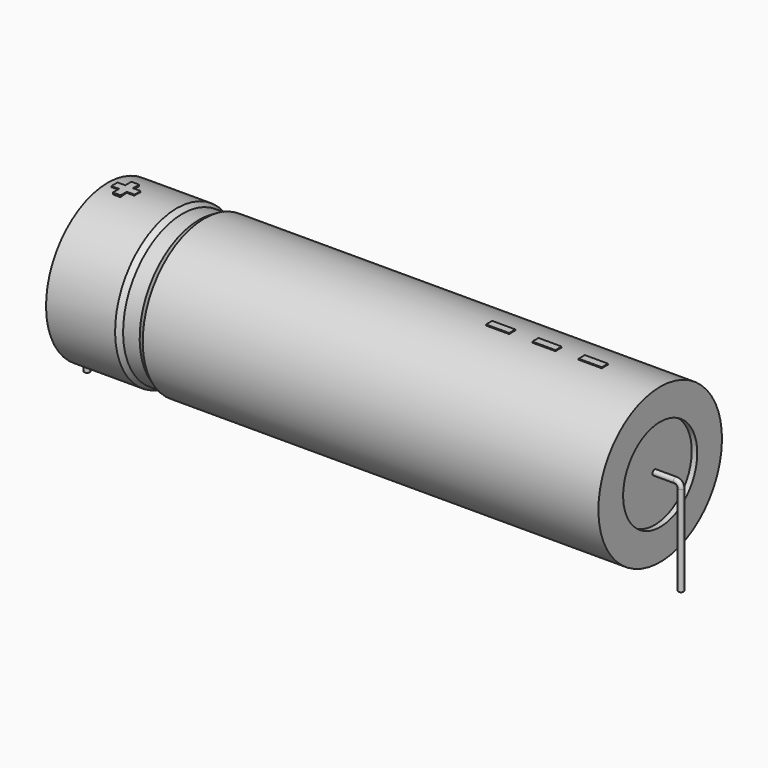
from build123d import *

# Parameters (mm, degrees)
SKETCH_R    = 0.45
SKETCH004_W = 3.9
SKETCH004_H = 1.3
PAD_DEPTH   = 13.13


with BuildPart() as sweep_body:
    # Sweep: sweep along a path in Sketch001
    with BuildLine(Plane.XZ) as sweep_path:
        Line((0, -3), (0, 12.2))
        ThreePointArc((0, 12.2), (0.263601, 12.836393), (0.899993, 13.1))
        Line((0.899993, 13.1), (99.1, 13.1))
        ThreePointArc((99.1, 13.1), (99.736396, 12.836396), (100, 12.2))
        Line((100, 12.2), (100, -3))
    # Sketch → Sweep (sweep)
    with BuildSketch(Plane.XY.offset(-2)):
        Circle(SKETCH_R)
    sweep(path=sweep_path.line)


with BuildPart() as revolution:
    # Sketch002 → Revolution (revolve)
    with BuildSketch(Plane.XZ):
        Polygon((3.5, 26.1), (3.5, 20.9), (96.5, 20.9), (96.5, 26.1), (19.775, 26.1), (18.845, 25.58), (16.055, 25.58), (15.125, 26.1), align=None)
    revolve(axis=Axis((6.97588, 0, 13.1), (1, 0, 0)))


with BuildPart() as revolution001:
    # Sketch003 → Revolution001 (revolve)
    with BuildSketch(Plane.XZ):
        Polygon((4.43, 25.58), (9.08, 25.58), (9.08, 14.4), (90.92, 14.4), (90.92, 25.58), (95.57, 25.58), (95.57, 13.1), (4.43, 13.1), align=None)
    revolve(axis=Axis((6.97588, 0, 13.1), (1, 0, 0)))


with BuildPart() as pad:
    # Sketch004 → Pad (new body)
    with BuildSketch(Plane.XY.offset(13.1)):
        with Locations((85.25, 0)):
            Rectangle(SKETCH004_W, SKETCH004_H)
        with Locations((77.45, 0)):
            Rectangle(SKETCH004_W, SKETCH004_H)
        with Locations((69.65, 0)):
            Rectangle(SKETCH004_W, SKETCH004_H)
        Polygon((5.916, 0.65), (4.616, 0.65), (4.616, -0.65), (5.916, -0.65), (5.916, -1.95), (7.216, -1.95), (7.216, -0.65), (8.516, -0.65), (8.516, 0.65), (7.216, 0.65), (7.216, 1.95), (5.916, 1.95), align=None)
    extrude(amount=PAD_DEPTH)


solid = Compound([sweep_body.part, revolution.part, revolution001.part, pad.part])
